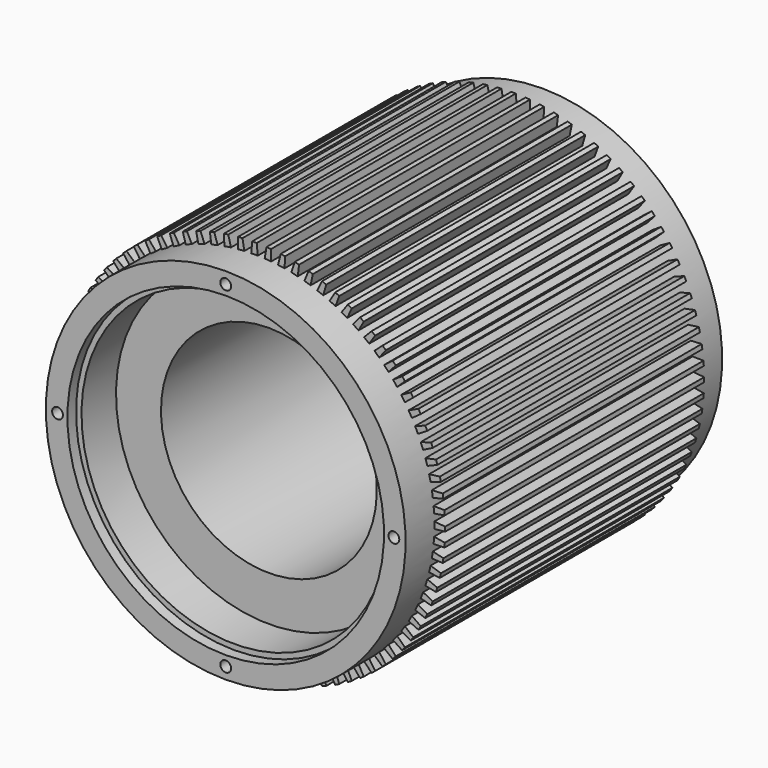
from build123d import *

# Parameters (mm, degrees)
SKETCH001_R                 = 3
POCKET_DEPTH                = 14
SKETCH001_POLARPATTERN_2_R  = 3
POCKET_POLARPATTERN_2_DEPTH = 14
SKETCH001_POLARPATTERN_3_R  = 3
POCKET_POLARPATTERN_3_DEPTH = 14
SKETCH001_POLARPATTERN_4_R  = 3
POCKET_POLARPATTERN_4_DEPTH = 14
PAD_DEPTH                   = 90
POLARPATTERN001_COUNT       = 84


with BuildPart() as part:
    # Sketch → Revolution (revolve)
    with BuildSketch(Plane.YZ):
        Polygon((-110, 100), (110, 100), (110, 88), (104, 88), (104, 85), (80, 85), (80, 60), (-80, 60), (-80, 85), (-104, 85), (-104, 88), (-110, 88), align=None)
    revolve(axis=Axis((0, 0, 0), (0, 1, 0)))

    # Sketch001 (on DatumPlane) → Pocket (cut)
    with BuildSketch(Plane.XZ.offset(110)):
        with Locations((0, 93.5)):
            Circle(SKETCH001_R)
    pocket = extrude(amount=-POCKET_DEPTH, mode=Mode.SUBTRACT)

    # Sketch001 PolarPattern 2 → Pocket PolarPattern 2 (cut)
    with BuildSketch(Plane(origin=(0, -110, 0), x_dir=(0, 0, -1), z_dir=(0, -1, 0))):
        with Locations((0, 93.5)):
            Circle(SKETCH001_POLARPATTERN_2_R)
    pocket_polarpattern_2 = extrude(amount=-POCKET_POLARPATTERN_2_DEPTH, mode=Mode.SUBTRACT)

    # Sketch001 PolarPattern 3 → Pocket PolarPattern 3 (cut)
    with BuildSketch(Plane(origin=(0, -110, 0), x_dir=(-1, 0, 0), z_dir=(0, -1, 0))):
        with Locations((0, 93.5)):
            Circle(SKETCH001_POLARPATTERN_3_R)
    pocket_polarpattern_3 = extrude(amount=-POCKET_POLARPATTERN_3_DEPTH, mode=Mode.SUBTRACT)

    # Sketch001 PolarPattern 4 → Pocket PolarPattern 4 (cut)
    with BuildSketch(Plane(origin=(0, -110, 0), x_dir=(0, 0, 1), z_dir=(0, -1, 0))):
        with Locations((0, 93.5)):
            Circle(SKETCH001_POLARPATTERN_4_R)
    pocket_polarpattern_4 = extrude(amount=-POCKET_POLARPATTERN_4_DEPTH, mode=Mode.SUBTRACT)

    # Mirrored: Pocket, Pocket PolarPattern 2, Pocket PolarPattern 3, Pocket PolarPattern 4 across XZ
    add(pocket.mirror(Plane.XZ), mode=Mode.SUBTRACT)
    add(pocket_polarpattern_2.mirror(Plane.XZ), mode=Mode.SUBTRACT)
    add(pocket_polarpattern_3.mirror(Plane.XZ), mode=Mode.SUBTRACT)
    add(pocket_polarpattern_4.mirror(Plane.XZ), mode=Mode.SUBTRACT)

    # Sketch002 → Pad (join, symmetric)
    with BuildSketch(Plane.XZ):
        Polygon((-2, 98), (-1.25, 106), (1.25, 106), (2, 98), align=None)
    pad = extrude(amount=PAD_DEPTH, both=True)

    # PolarPattern001: Pad ×84 about axis
    polarpattern001_axis = Axis((0, 0, 0), (0, 1, 0))
    for i in range(1, POLARPATTERN001_COUNT):
        add(pad.rotate(polarpattern001_axis, i * 360 / POLARPATTERN001_COUNT))


solid = part.part
